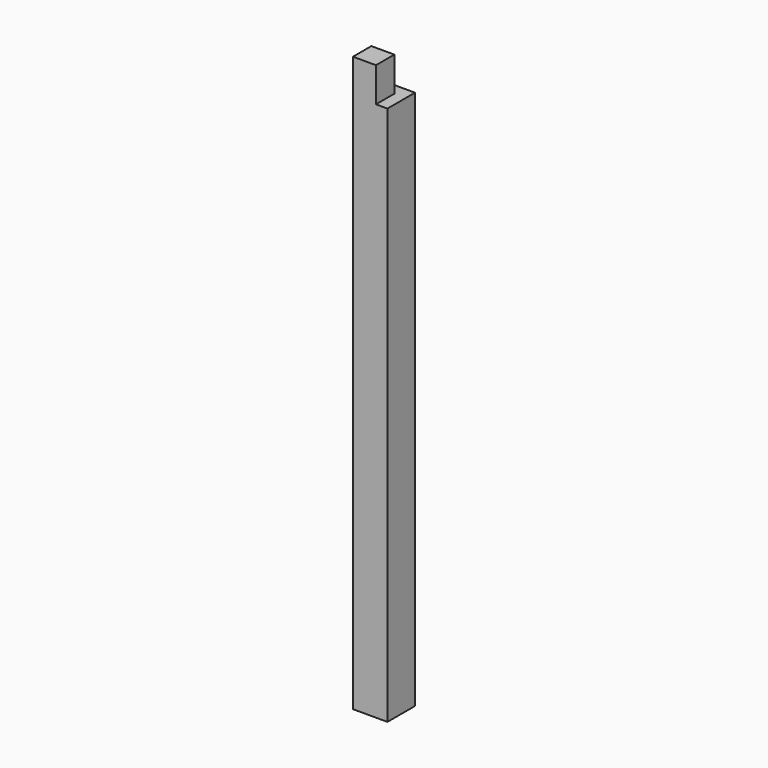
from build123d import *

# Parameters (mm, degrees)
F0_W     = 150
F0_H     = 150
F1_DEPTH = 2500
F3_DEPTH = 150


with BuildPart() as f1:
    # F0 (on Top) → F1 (new body)
    with BuildSketch(Plane.XY):
        Rectangle(F0_W, F0_H)
    extrude(amount=F1_DEPTH)

    # F2 (on face) → F3 (cut)
    with BuildSketch(Plane.XY.offset(2500)):
        Polygon((25, 25), (25, -75), (75, -75), (75, 75), (-75, 75), (-75, 25), align=None)
    extrude(amount=-F3_DEPTH, mode=Mode.SUBTRACT)


solid = f1.part
